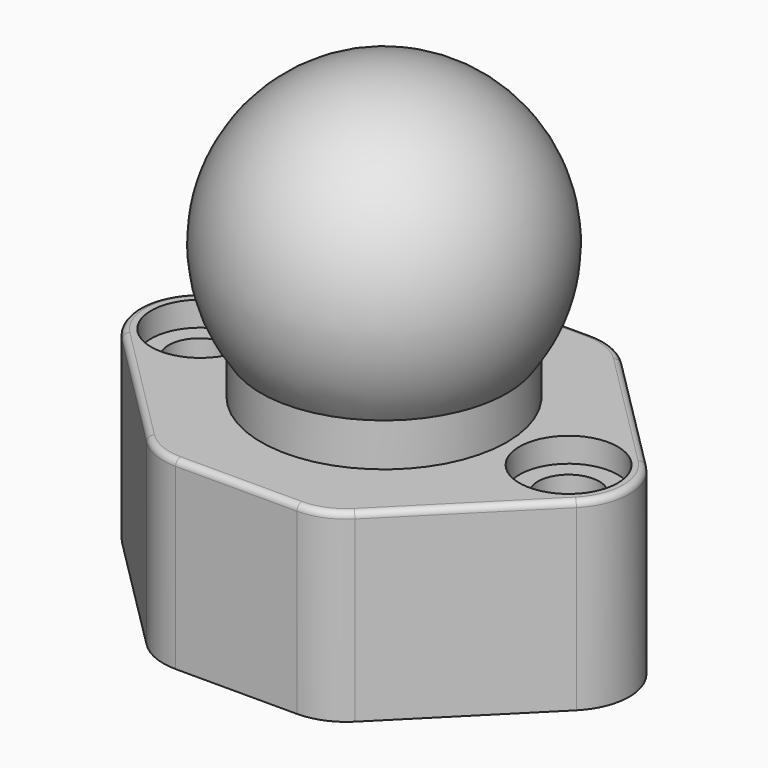
from build123d import *

# Parameters (mm, degrees)
F2_R     = 10
F3_DEPTH = 26
F4_R     = 2.5
F4_R_2   = 10
F5_DEPTH = 15
F6_R     = 5
F7_R     = 0.5
F8_R     = 4
F9_DEPTH = 2


with BuildPart() as f1:
    # F0 (on Top) → F1 (revolve)
    with BuildSketch(Plane.XY):
        with BuildLine():
            ThreePointArc((-12.5, 0), (0, -12.5), (12.5, 0))
            Line((12.5, 0), (-12.5, 0))
        make_face()
    revolve(axis=Axis((5, 0, 0), (-1, 0, 0)))

    # F2 (on Top) → F3 (join)
    with BuildSketch(Plane.XY):
        Circle(F2_R)
    extrude(amount=-F3_DEPTH)

    # F4 (on face) → F5 (join)
    with BuildSketch(Plane(origin=(0, 0, -26), x_dir=(1, 0, 0), z_dir=(0, 0, -1))):
        Polygon((7, 15), (0, 15), (-7, 15), (-22, 0), (-7, -15), (0, -15), (7, -15), (22, 0), align=None)
        with Locations((-15, 0)):
            Circle(F4_R, mode=Mode.SUBTRACT)
        Circle(F4_R_2, mode=Mode.SUBTRACT)
        with Locations((15, 0)):
            Circle(F4_R, mode=Mode.SUBTRACT)
    extrude(amount=-F5_DEPTH)

    # F6
    f6_edges = [f1.edges().sort_by_distance(p)[0] for p in [
        (-22, 0, -18.5),
        (-7, -15, -18.5),
        (7, -15, -18.5),
        (22, 0, -18.5),
        (7, 15, -18.5),
        (-7, 15, -18.5),
    ]]
    fillet(f6_edges, radius=F6_R)

    # F7
    f7_edges = [f1.edges().sort_by_distance(p)[0] for p in [
        (-13.464466, -8.535534, -11),
    ]]
    fillet(f7_edges, radius=F7_R)

    # F8 (on face) → F9 (cut)
    with BuildSketch(Plane.XY.offset(-11)):
        with Locations((-14.928932, 0)):
            Circle(F8_R)
        with Locations((15, 0)):
            Circle(F8_R)
    extrude(amount=-F9_DEPTH, mode=Mode.SUBTRACT)


solid = f1.part
